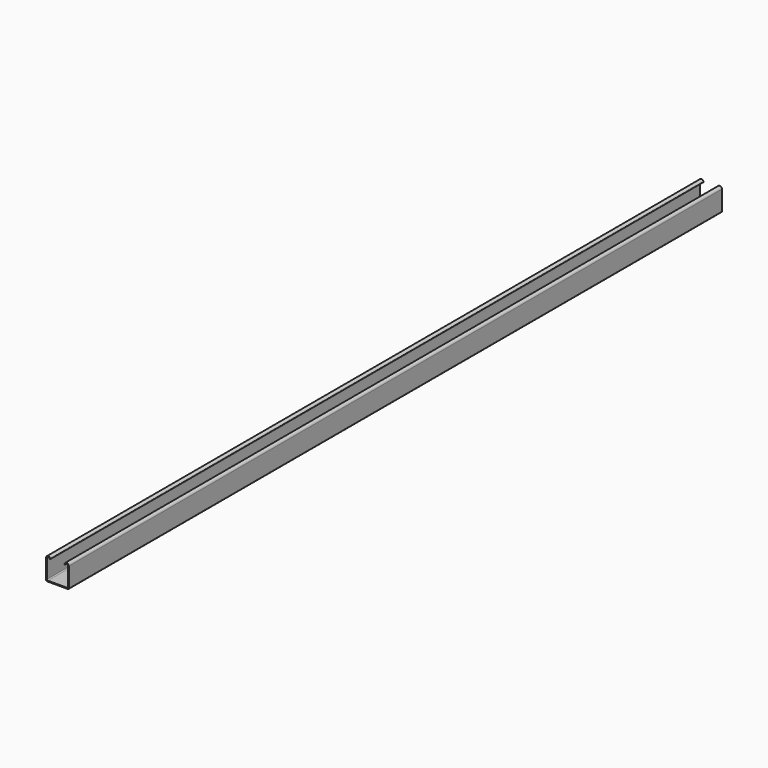
from build123d import *

# Parameters (mm, degrees)
F1_DEPTH = 742.95
F2_R     = 1.5875
F3_R     = 0.635


with BuildPart() as f1:
    # F0 (on Front) → F1 (new body, symmetric)
    with BuildSketch(Plane.XZ):
        with BuildLine():
            Line((0, 37.3126), (0, 0))
            Line((0, 0), (41.275, 0))
            Line((41.275, 0), (41.275, 37.3126))
            ThreePointArc((41.275, 37.3126), (37.3126, 41.275), (33.3502, 37.3126))
            Line((33.3502, 37.3126), (34.9377, 37.3126))
            ThreePointArc((34.9377, 37.3126), (37.3126, 39.6875), (39.6875, 37.3126))
            Line((39.6875, 37.3126), (39.6875, 1.5875))
            Line((39.6875, 1.5875), (1.5875, 1.5875))
            Line((1.5875, 1.5875), (1.5875, 37.3126))
            ThreePointArc((1.5875, 37.3126), (3.9624, 39.6875), (6.3373, 37.3126))
            Line((6.3373, 37.3126), (7.9248, 37.3126))
            ThreePointArc((7.9248, 37.3126), (3.9624, 41.275), (0, 37.3126))
        make_face()
    extrude(amount=F1_DEPTH, both=True)

    # F2
    f2_edges = [f1.edges().sort_by_distance(p)[0] for p in [
        (1.5875, 0, 1.5875),
        (39.6875, 0, 1.5875),
        (0, 0, 0),
        (41.275, 0, 0),
    ]]
    fillet(f2_edges, radius=F2_R)

    # F3
    f3_edges = [f1.edges().sort_by_distance(p)[0] for p in [
        (7.13105, 742.95, 37.3126),
        (7.9248, 0, 37.3126),
        (7.13105, -742.95, 37.3126),
        (6.3373, 0, 37.3126),
        (33.3502, 0, 37.3126),
        (34.9377, 0, 37.3126),
    ]]
    fillet(f3_edges, radius=F3_R)


solid = f1.part
